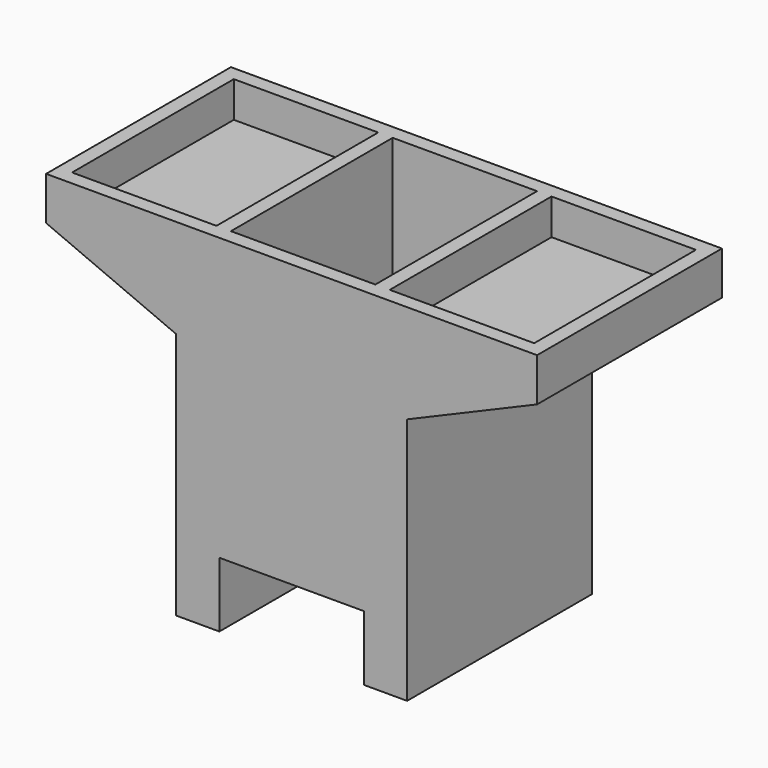
from build123d import *

# Parameters (mm, degrees)
F1_DEPTH = 400
F2_W     = 500
F2_H     = 700
F3_DEPTH = 840
F4_W     = 500
F4_H     = 700
F5_DEPTH = 124


with BuildPart() as f1:
    # F0 (on Front) → F1 (new body, symmetric)
    with BuildSketch(Plane.XZ):
        Polygon((-250, 224.901706), (0, 224.901706), (250, 224.901706), (250, 0), (400, 0), (400, 858.125869), (850, 1050), (850, 1200), (0, 1200), (-850, 1200), (-850, 1050), (-400, 858.125869), (-400, 0), (-250, 0), align=None)
    extrude(amount=F1_DEPTH, both=True)

    # F2 (on face) → F3 (cut)
    with BuildSketch(Plane.XY.offset(1200)):
        Rectangle(F2_W, F2_H)
    extrude(amount=-F3_DEPTH, mode=Mode.SUBTRACT)

    # F4 (on face) → F5 (cut)
    with BuildSketch(Plane.XY.offset(1200)):
        with Locations((-550, 0)):
            Rectangle(F4_W, F4_H)
        with Locations((550, 0)):
            Rectangle(F4_W, F4_H)
    extrude(amount=-F5_DEPTH, mode=Mode.SUBTRACT)


solid = f1.part
